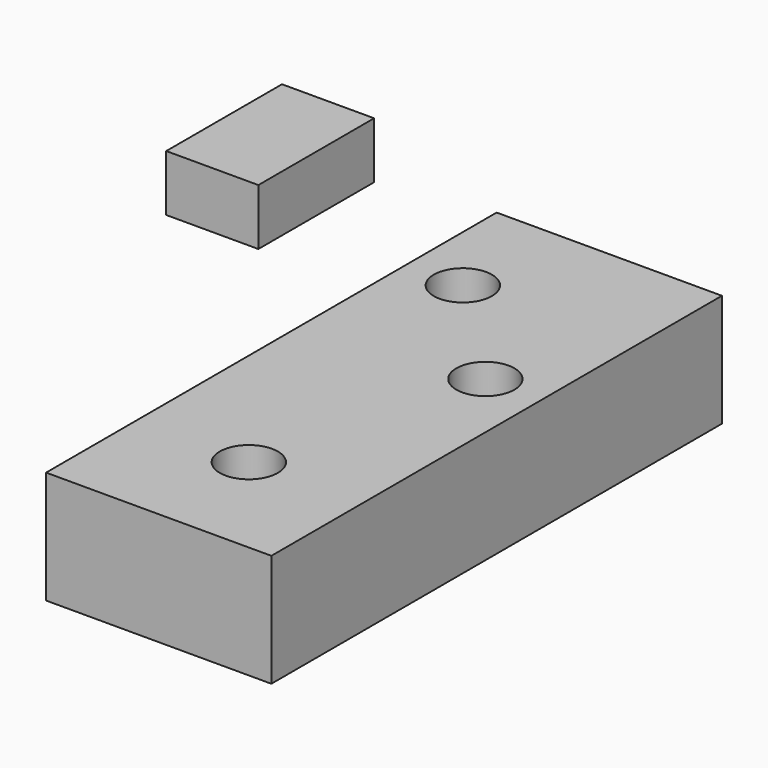
from build123d import *

# Parameters (mm, degrees)
F0_W     = 101.6
F0_H     = 50.8
F1_DEPTH = 254
F2_W     = 41.54984653
F2_H     = 65.2474500239
F3_DEPTH = 25.4
F5_D     = 26.19502


with BuildPart() as f1:
    # F0 (on Front) → F1 (new body)
    with BuildSketch(Plane.XZ):
        Rectangle(F0_W, F0_H)
    extrude(amount=F1_DEPTH)

    # F5 (through all)
    with Locations(Plane.XY.offset(25.4)):
        with Locations((0, -203.2), (25.4, -101.6), (-25.4, -50.8)):
            Hole(F5_D / 2)


with BuildPart() as f3:
    # F2 (on Top) → F3 (new body)
    with BuildSketch(Plane.XY):
        with Locations((-150.1859650016, -3.4338515252)):
            Rectangle(F2_W, F2_H)
    extrude(amount=F3_DEPTH)


solid = Compound([f1.part, f3.part])
